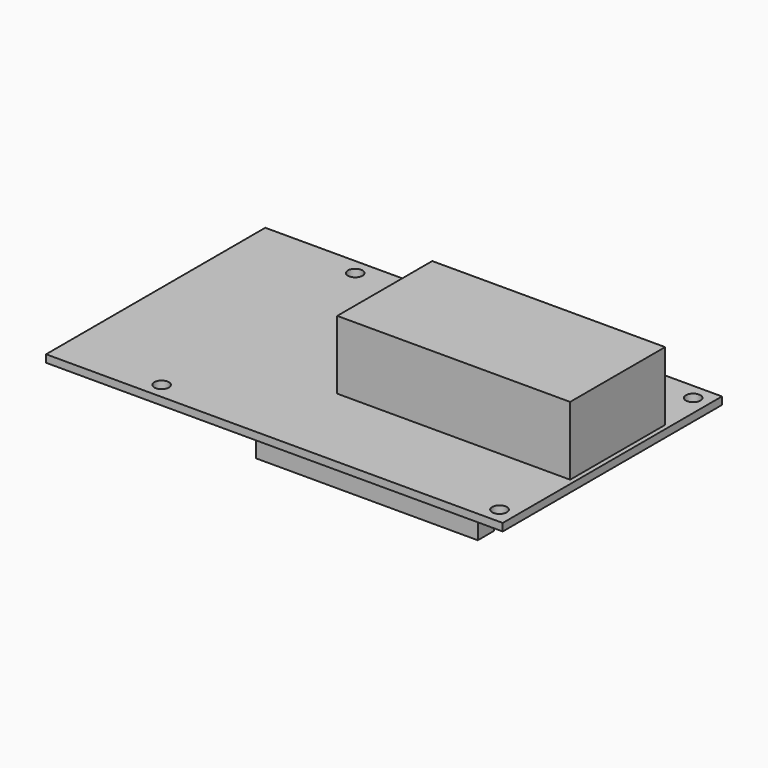
from build123d import *

# Parameters (mm, degrees)
F0_W     = 100
F0_H     = 60
F0_R     = 1.6
F1_DEPTH = 1.65
F2_W     = 48.6
F2_H     = 4.5
F3_DEPTH = 4.5
F4_W     = 51
F4_H     = 26
F5_DEPTH = 15


with BuildPart() as f1:
    # F0 (on Top) → F1 (new body)
    with BuildSketch(Plane.XY):
        Rectangle(F0_W, F0_H)
        with Locations((-27.5, -26.5)):
            Circle(F0_R, mode=Mode.SUBTRACT)
        with Locations((46.5, -26.5)):
            Circle(F0_R, mode=Mode.SUBTRACT)
        with Locations((-27.5, 26.5)):
            Circle(F0_R, mode=Mode.SUBTRACT)
        with Locations((46.5, 26.5)):
            Circle(F0_R, mode=Mode.SUBTRACT)
    extrude(amount=F1_DEPTH)

    # F2 (on face) → F3 (join)
    with BuildSketch(Plane(origin=(0, 0, 0), x_dir=(1, 0, 0), z_dir=(0, 0, -1))):
        with Locations((19, 26.2)):
            Rectangle(F2_W, F2_H)
        with Locations((19, -26.2)):
            Rectangle(F2_W, F2_H)
    extrude(amount=F3_DEPTH)

    # F4 (on face) → F5 (join)
    with BuildSketch(Plane.XY.offset(1.65)):
        with Locations((23.5, 2.7)):
            Rectangle(F4_W, F4_H)
    extrude(amount=F5_DEPTH)


solid = f1.part
